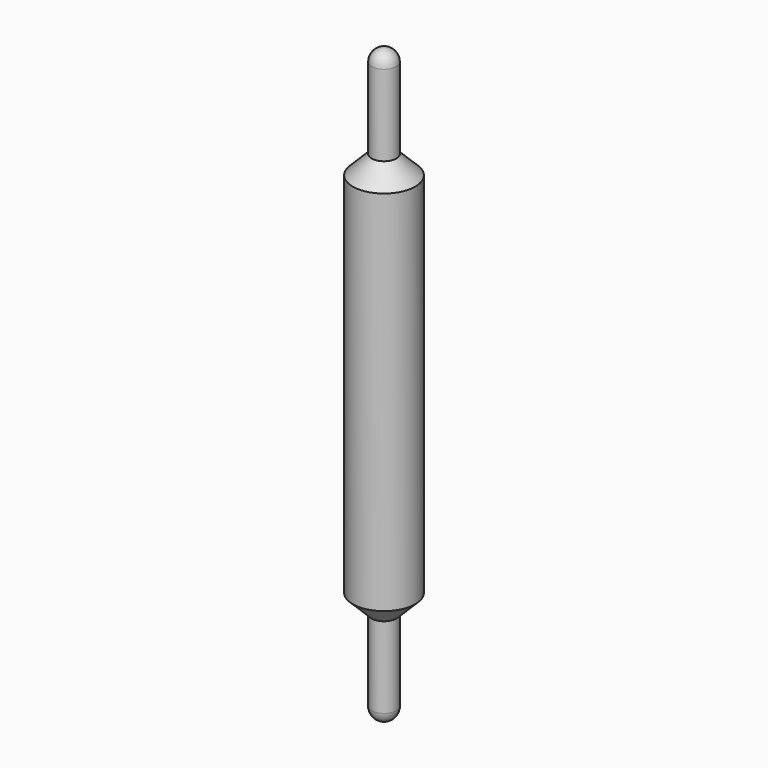
from build123d import *


with BuildPart() as f1:
    # F0 (on Right) → F1 (revolve)
    with BuildSketch(Plane.YZ):
        with BuildLine():
            Line((-0.25, 1.625), (-0.15, 1.625))
            Line((-0.15, 1.625), (-0.15, 2.275))
            ThreePointArc((-0.15, 2.275), (-0.179289, 2.345711), (-0.25, 2.375))
            Line((-0.25, 2.375), (-0.25, 1.625))
        make_face()
        Polygon((-0.25, 0), (0, 0), (0, 1.475), (-0.15, 1.625), (-0.25, 1.625), (-0.25, 1.475), align=None)
        Polygon((0, -1.475), (0, 0), (-0.25, 0), (-0.25, -1.475), (-0.25, -1.625), (-0.15, -1.625), align=None)
        with BuildLine():
            Line((-0.15, -2.275), (-0.15, -1.625))
            Line((-0.15, -1.625), (-0.25, -1.625))
            Line((-0.25, -1.625), (-0.25, -2.375))
            ThreePointArc((-0.25, -2.375), (-0.179289, -2.345711), (-0.15, -2.275))
        make_face()
    revolve(axis=Axis((0, -0.25, -0.7375), (0, 0, -1)))


solid = f1.part
